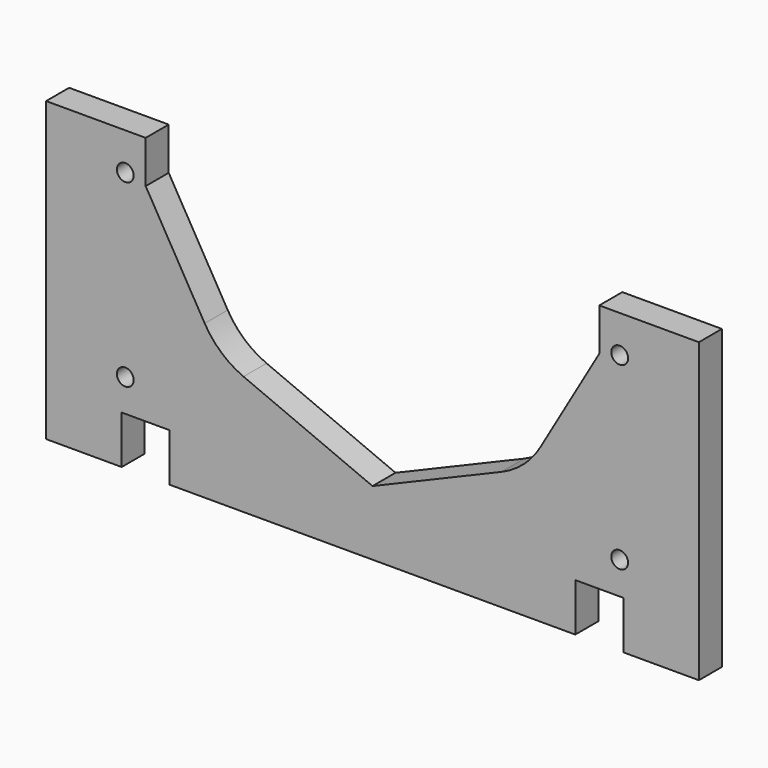
from build123d import *

# Parameters (mm, degrees)
F1_DEPTH = 6
F2_R     = 1.75
F3_DEPTH = 6.001
F4_W     = 10
F4_H     = 10
F5_DEPTH = 6.001


with BuildPart() as f1:
    # F0 (on Front) → F1 (new body)
    with BuildSketch(Plane.XZ):
        with BuildLine():
            Line((-68, 0), (0, 0))
            Line((0, 0), (68, 0))
            Line((68, 0), (68, 62))
            Line((68, 62), (47.25, 62))
            Line((47.25, 62), (47.25, 53.147458))
            Line((47.25, 53.147458), (34.951913, 31.964558))
            ThreePointArc((34.951913, 31.964558), (31.486373, 27.742888), (26.860942, 24.838089))
            Line((26.860942, 24.838089), (0, 13.5))
            Line((0, 13.5), (-26.860942, 24.838089))
            ThreePointArc((-26.860942, 24.838089), (-31.486373, 27.742888), (-34.951913, 31.964558))
            Line((-34.951913, 31.964558), (-47.25, 53.147458))
            Line((-47.25, 53.147458), (-47.25, 62))
            Line((-47.25, 62), (-68, 62))
            Line((-68, 62), (-68, 0))
        make_face()
    extrude(amount=F1_DEPTH)

    # F2 (on face) → F3 (cut, through all)
    with BuildSketch(Plane.XZ.offset(6)):
        with Locations((-51.5, 54.25)):
            Circle(F2_R)
        with Locations((-51.5, 16.75)):
            Circle(F2_R)
        with Locations((51.5, 54.25)):
            Circle(F2_R)
        with Locations((51.5, 16.75)):
            Circle(F2_R)
    extrude(amount=-F3_DEPTH, mode=Mode.SUBTRACT)

    # F4 (on face) → F5 (cut, through all)
    with BuildSketch(Plane.XZ.offset(6)):
        with Locations((-47.25, 5)):
            Rectangle(F4_W, F4_H)
        with Locations((47.25, 5)):
            Rectangle(F4_W, F4_H)
    extrude(amount=-F5_DEPTH, mode=Mode.SUBTRACT)


solid = f1.part
